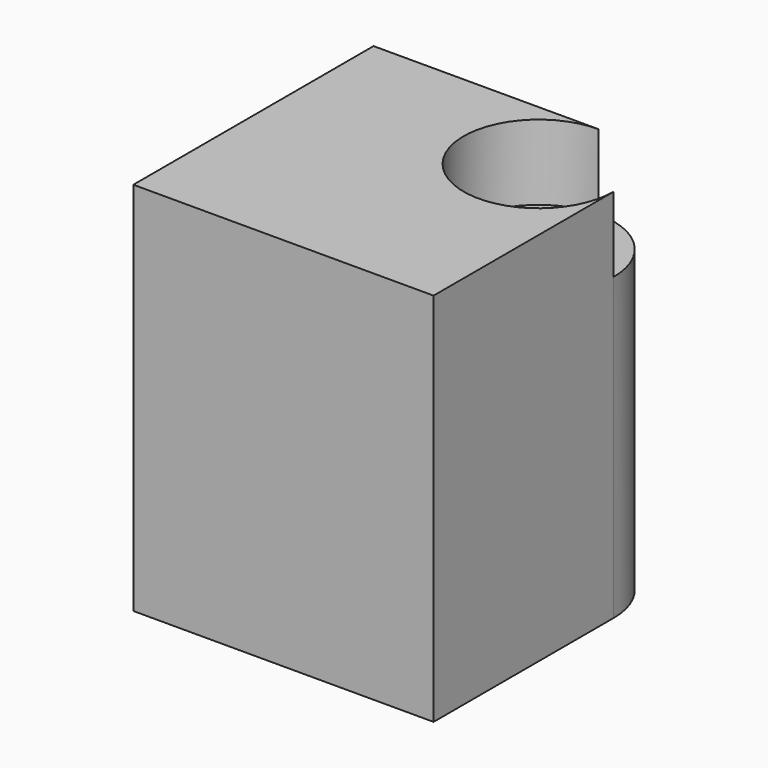
from build123d import *

# Parameters (mm, degrees)
F1_DEPTH       = 25
F2_D           = 5
F2_CBORE_D     = 10
F2_CBORE_DEPTH = 5


with BuildPart() as f1:
    # F0 (on Top) → F1 (new body)
    with BuildSketch(Plane.XY):
        with BuildLine():
            Line((-53.000077, 40), (-68.000077, 40))
            Line((-68.000077, 40), (-68.000077, 20))
            Line((-68.000077, 20), (-48.000077, 20))
            Line((-48.000077, 20), (-48.000077, 35))
            ThreePointArc((-48.000077, 35), (-49.464543, 38.535534), (-53.000077, 40))
        make_face()
    extrude(amount=-F1_DEPTH)

    # F2 (through all)
    with Locations(Plane.XY):
        with Locations((-53.000077, 35)):
            CounterBoreHole(F2_D / 2, F2_CBORE_D / 2, F2_CBORE_DEPTH)


solid = f1.part
